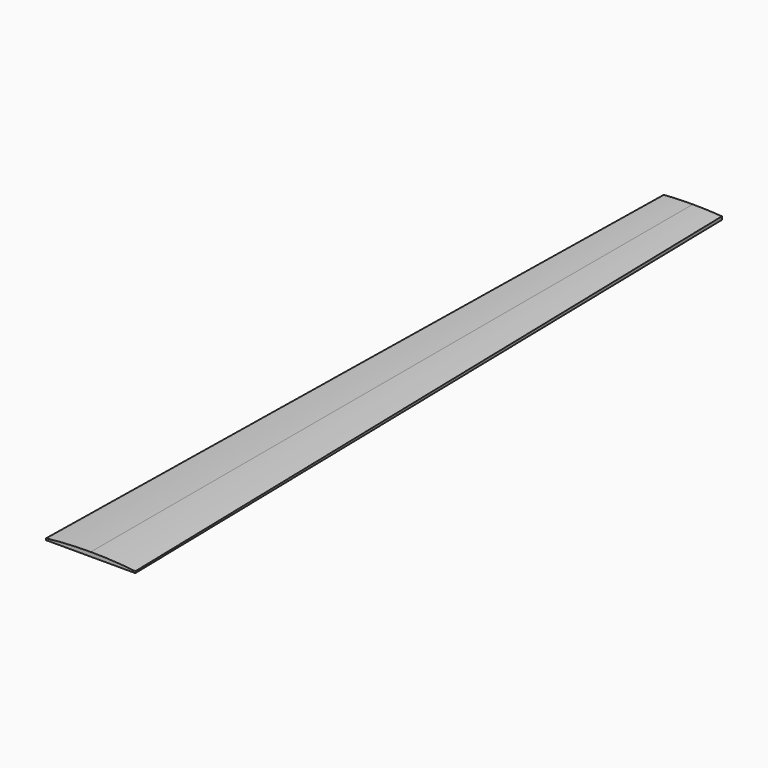
from build123d import *

# Parameters (mm, degrees)
F1_DEPTH = 3.175
F3_DEPTH = 571.501


with BuildPart() as f1:
    # F0 (on Top) → F1 (new body)
    with BuildSketch(Plane.XY):
        Polygon((22.074243, 571.5), (-22.074243, 571.5), (-33.882719, 0), (33.882719, 0), align=None)
    extrude(amount=F1_DEPTH)

    # F2 (on face) → F3 (cut, through all)
    with BuildSketch(Plane.XZ):
        with BuildLine():
            ThreePointArc((-33.882719, 1.28588), (-16.967671, 2.702354), (0, 3.175))
            Line((0, 3.175), (-33.882719, 3.175))
            Line((-33.882719, 3.175), (-33.882719, 1.28588))
        make_face()
        with BuildLine():
            ThreePointArc((0, 3.175), (16.967671, 2.702354), (33.882719, 1.28588))
            Line((33.882719, 1.28588), (33.882719, 3.175))
            Line((33.882719, 3.175), (0, 3.175))
        make_face()
    extrude(amount=-F3_DEPTH, mode=Mode.SUBTRACT)


solid = f1.part
